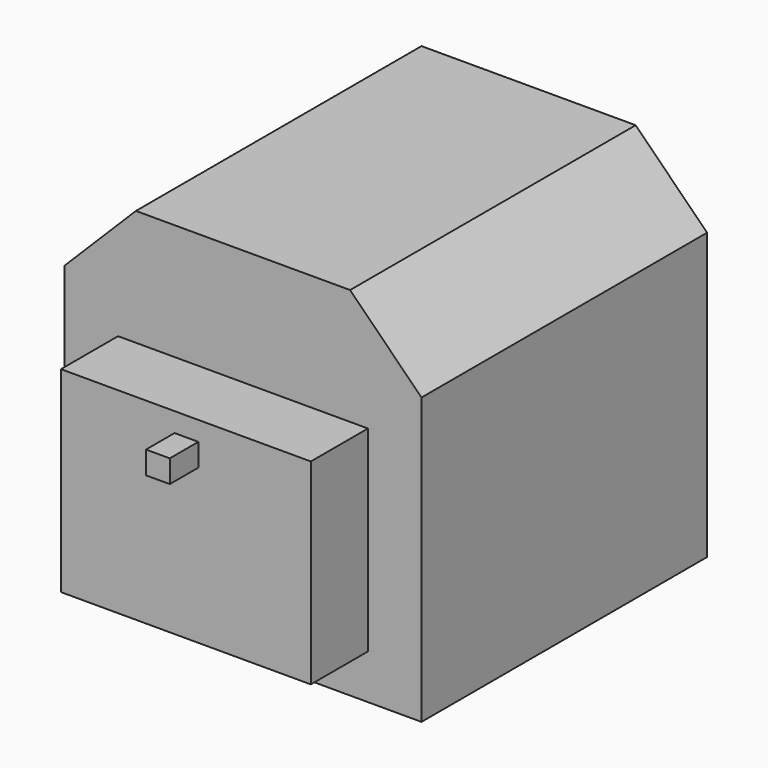
from build123d import *

# Parameters (mm, degrees)
F0_W     = 1000
F0_H     = 1000
F1_DEPTH = 1000
F2_SIZE  = 200
F3_W     = 700
F3_H     = 549.8493
F4_DEPTH = 200
F5_W     = 66.719718
F5_H     = 63.54259
F6_DEPTH = 100


with BuildPart() as f1:
    # F0 (on Front) → F1 (new body)
    with BuildSketch(Plane.XZ):
        with Locations((-0.63042, 175.785489)):
            Rectangle(F0_W, F0_H)
    extrude(amount=F1_DEPTH)

    # F2
    f2_edges = [f1.edges().sort_by_distance(p)[0] for p in [
        (-500.63042, -500, 675.785489),
        (499.36958, -500, 675.785489),
    ]]
    chamfer(f2_edges, length=F2_SIZE)

    # F3 (on face) → F4 (join)
    with BuildSketch(Plane.XZ.offset(1000)):
        with Locations((-0.63042, 75.705871)):
            Rectangle(F3_W, F3_H)
    extrude(amount=F4_DEPTH)

    # F5 (on face) → F6 (join)
    with BuildSketch(Plane.XZ.offset(1200)):
        with Locations((0.958163, 264.745094)):
            Rectangle(F5_W, F5_H)
    extrude(amount=F6_DEPTH)


solid = f1.part
